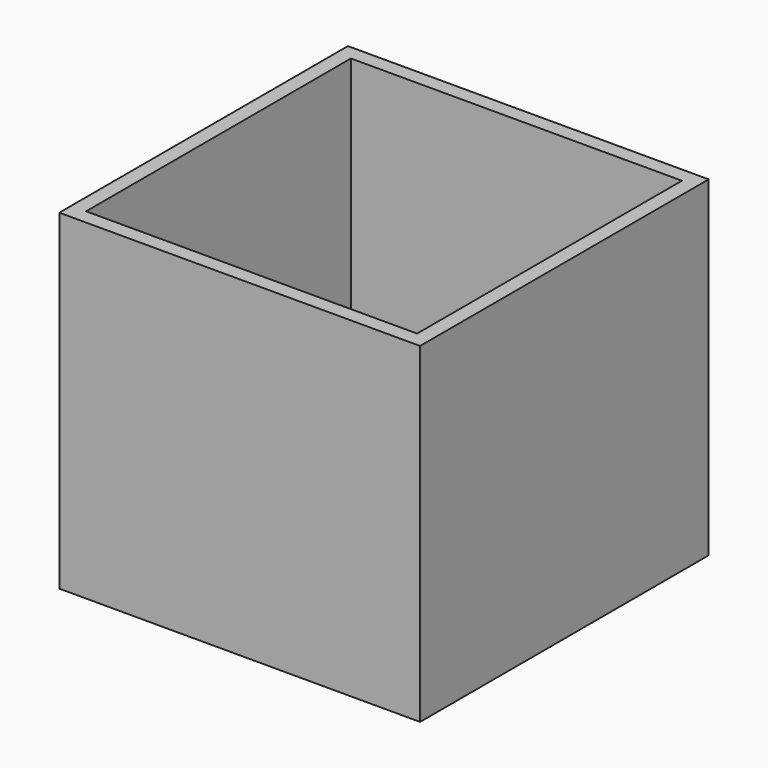
from build123d import *

# Parameters (mm, degrees)
F1_DEPTH = 200


with BuildPart() as f1:
    # F0 (on Top) → F1 (new body)
    with BuildSketch(Plane.XY):
        Polygon((-100, -109), (109, -109), (109, -100), (100, -100), (-100, -100), align=None)
        Polygon((-109, -109), (-100, -109), (-100, -100), (-100, 100), (-109, 100), align=None)
        Polygon((100, -100), (109, -100), (109, 109), (100, 109), (100, 100), align=None)
        Polygon((-109, 109), (-109, 100), (-100, 100), (100, 100), (100, 109), align=None)
    extrude(amount=F1_DEPTH)


solid = f1.part
